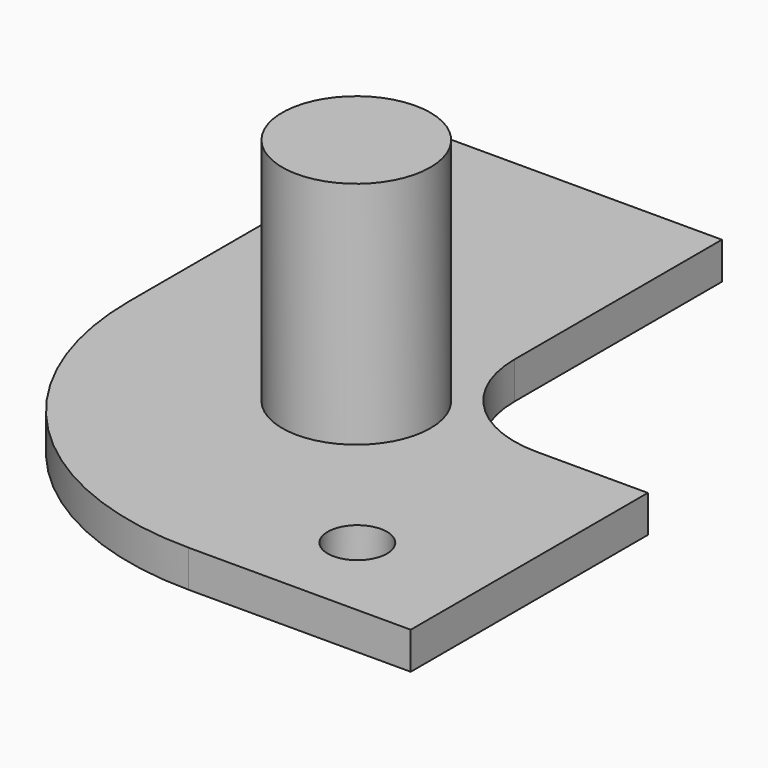
from build123d import *

# Parameters (mm, degrees)
F0_R     = 6.35
F1_DEPTH = 22.86
F0_R_2   = 2.54
F0_R_3   = 3.048
F2_DEPTH = 3.175


with BuildPart() as f1:
    # F0 (on Top) → F1 (new body)
    with BuildSketch(Plane.XY):
        with Locations((-4.509694, 23.622)):
            Circle(F0_R)
    extrude(amount=F1_DEPTH)

    # F0 (on Top) → F2 (join)
    with BuildSketch(Plane.XY):
        with BuildLine():
            Line((0, 57.15), (-25.4, 57.15))
            Line((-25.4, 57.15), (-25.4, 25.4))
            ThreePointArc((-25.4, 25.4), (-17.960512, 7.439488), (0, 0))
            Line((0, 0), (19.05, 0))
            Line((19.05, 0), (19.05, 25.4))
            Line((19.05, 25.4), (9.525, 25.4))
            ThreePointArc((9.525, 25.4), (2.789808, 28.189808), (0, 34.925))
            Line((0, 34.925), (0, 57.15))
        make_face()
        with Locations((-4.509694, 23.622)):
            Circle(F0_R, mode=Mode.SUBTRACT)
        with Locations((8.382, 7.62)):
            Circle(F0_R_2, mode=Mode.SUBTRACT)
        with Locations((-19.05, 46.482)):
            Circle(F0_R_3, mode=Mode.SUBTRACT)
    extrude(amount=F2_DEPTH)


solid = f1.part
